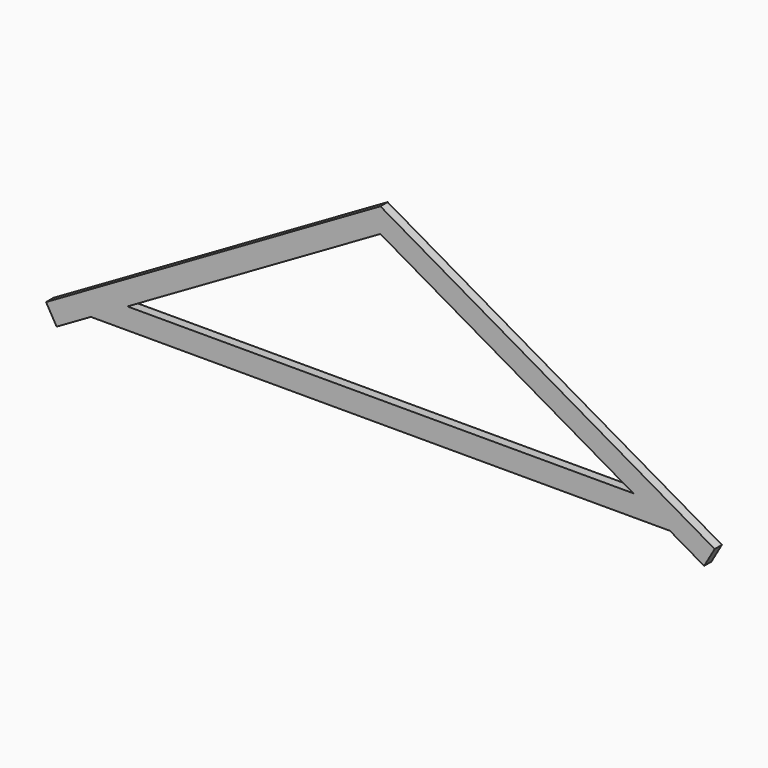
from build123d import *

# Parameters (mm, degrees)
F1_DEPTH = 19.05


with BuildPart() as f1:
    # F0 (on Front) → F1 (new body, symmetric)
    with BuildSketch(Plane.XZ):
        Polygon((-1334.847673, -224.800255), (-1190.686777, -141.568923), (1247.713223, -141.568923), (1391.874119, -224.800255), (1436.324119, -147.810597), (28.513223, 664.989403), (-1379.297673, -147.810597), align=None)
        Polygon((1093.733906, -52.668923), (-1036.70746, -52.668923), (28.513223, 562.336525), align=None, mode=Mode.SUBTRACT)
    extrude(amount=F1_DEPTH, both=True)


solid = f1.part
